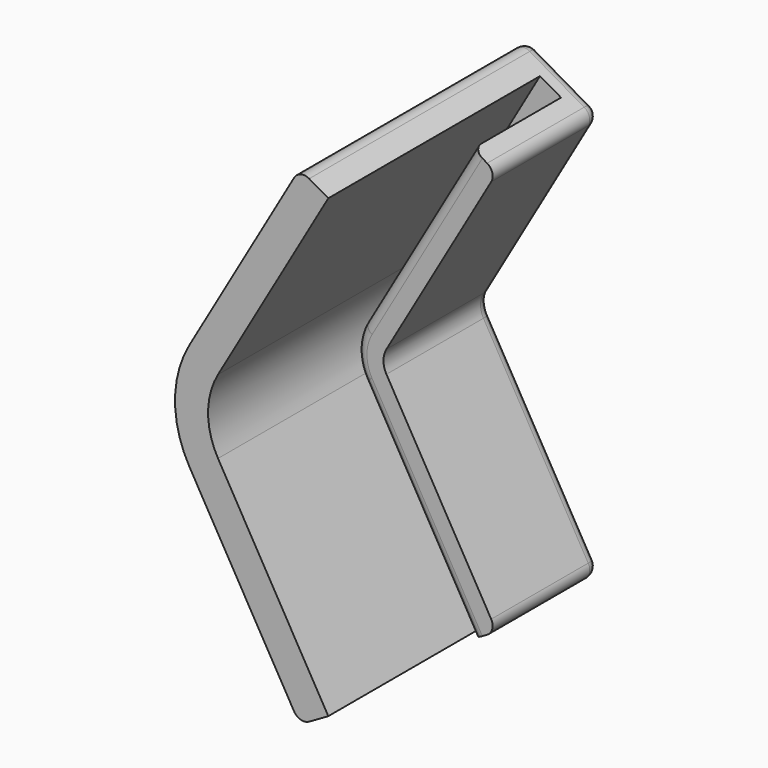
from build123d import *

# Parameters (mm, degrees)
F1_ANGLE_BACK = 30
F1_ANGLE      = 60
F3_DEPTH      = 20
F5_DEPTH      = 20
F6_R          = 1
F7_R          = 1
F8_R          = 1
F9_R          = 1


with BuildPart() as f1:
    # F0 (on Top) → F1 (revolve)
    with BuildSketch(Plane.XY, mode=Mode.PRIVATE) as f1_sk:
        Polygon((-6.7, 15.2109679412), (-9.7, 15.2109679412), (-9.7, -10.7890320588), (-6.7, -10.7890320588), (-6.7, 13.2109679412), (-4.5, 13.2109679412), (-4.5, 3.2109679412), (-2, 3.2109679412), (-2, 13.2109679412), (-2, 15.2109679412), align=None)
    revolve(f1_sk.sketch.rotate(Axis((0, 4.1356552392, 0), (0, -1, 0)), -F1_ANGLE_BACK), axis=Axis((0, 4.1356552392, 0), (0, -1, 0)), revolution_arc=F1_ANGLE)

    # F2 (on face) → F3 (join)
    with BuildSketch(Plane(origin=(0, 0, 0), x_dir=(0.8660254038, 0, -0.5), z_dir=(0.5, 0, 0.8660254038))):
        Polygon((-2, 15.2109679412), (-9.7, 15.2109679412), (-9.7, -10.7890320588), (-6.7, -10.7890320588), (-6.7, 13.2109679412), (-4.5, 13.2109679412), (-4.5, 3.2109679412), (-2, 3.2109679412), align=None)
    extrude(amount=F3_DEPTH)

    # F4 (on face) → F5 (join)
    with BuildSketch(Plane(origin=(0, 0, 0), x_dir=(0.8660254038, 0, 0.5), z_dir=(0.5, 0, -0.8660254038))):
        Polygon((-2, -15.2109679412), (-2, -3.2109679412), (-4.5, -3.2109679412), (-4.5, -13.2109679412), (-6.7, -13.2109679412), (-6.7, 10.7890320588), (-9.7, 10.7890320588), (-9.7, -15.2109679412), align=None)
    extrude(amount=F5_DEPTH)

    # F6
    f6_edges = [f1.edges().sort_by_distance(p)[0] for p in [
        (1.102886, 3.210968, 10.910254),
        (-3.400446, 15.210968, -13.510254),
    ]]
    fillet(f6_edges, radius=F6_R)

    # F7
    f7_edges = [f1.edges().sort_by_distance(p)[0] for p in [
        (3.267949, 15.210968, -9.660254),
    ]]
    fillet(f7_edges, radius=F7_R)

    # F8
    f8_edges = [f1.edges().sort_by_distance(p)[0] for p in [
        (4.933751, 15.210968, 20.245508),
    ]]
    fillet(f8_edges, radius=F8_R)

    # F9
    f9_edges = [f1.edges().sort_by_distance(p)[0] for p in [
        (1.599554, 1.710968, -22.170508),
    ]]
    fillet(f9_edges, radius=F9_R)


solid = f1.part
